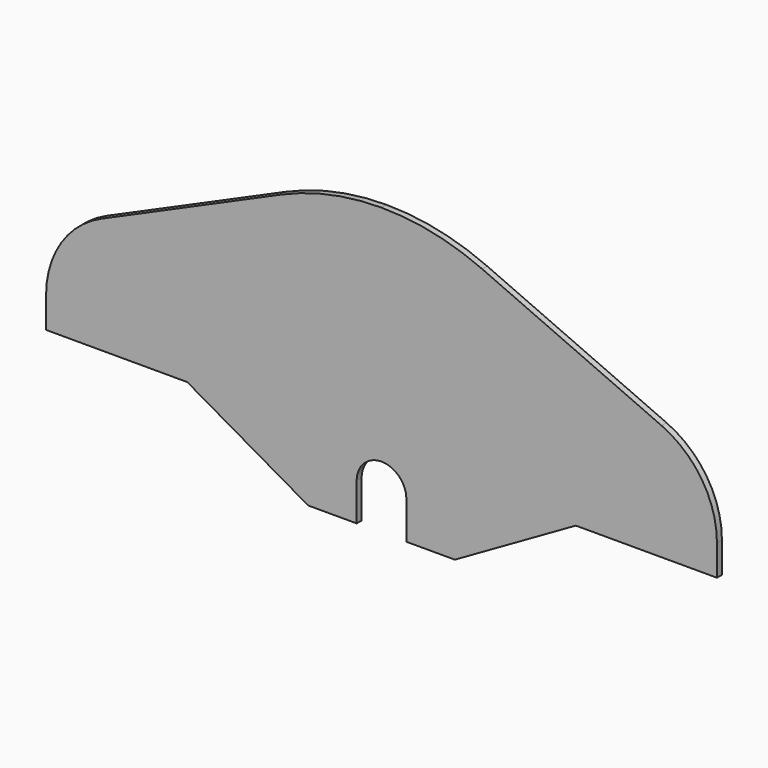
from build123d import *

# Parameters (mm, degrees)
F1_DEPTH = 3.175


with BuildPart() as f1:
    # F0 (on Front) → F1 (new body)
    with BuildSketch(Plane.XZ):
        with BuildLine():
            Line((171.45, -37.6809), (171.45, -21.956102))
            ThreePointArc((171.45, -21.956102), (163.746135, 4.01395), (143.12691, 21.582122))
            Line((143.12691, 21.582122), (51.471759, 62.215829))
            ThreePointArc((51.471759, 62.215829), (26.306415, 70.359514), (0, 73.1139))
            ThreePointArc((0, 73.1139), (-26.306415, 70.359514), (-51.471759, 62.215829))
            Line((-51.471759, 62.215829), (-143.12691, 21.582122))
            ThreePointArc((-143.12691, 21.582122), (-163.746135, 4.01395), (-171.45, -21.956102))
            Line((-171.45, -21.956102), (-171.45, -37.6809))
            Line((-171.45, -37.6809), (-99.314, -37.6809))
            Line((-99.314, -37.6809), (-37.4904, -73.1139))
            Line((-37.4904, -73.1139), (-12.7, -73.1139))
            Line((-12.7, -73.1139), (-12.7, -53.8861))
            ThreePointArc((-12.7, -53.8861), (0, -41.1861), (12.7, -53.8861))
            Line((12.7, -53.8861), (12.7, -73.1139))
            Line((12.7, -73.1139), (37.4904, -73.1139))
            Line((37.4904, -73.1139), (99.314, -37.6809))
            Line((99.314, -37.6809), (171.45, -37.6809))
        make_face()
    extrude(amount=F1_DEPTH)


solid = f1.part
